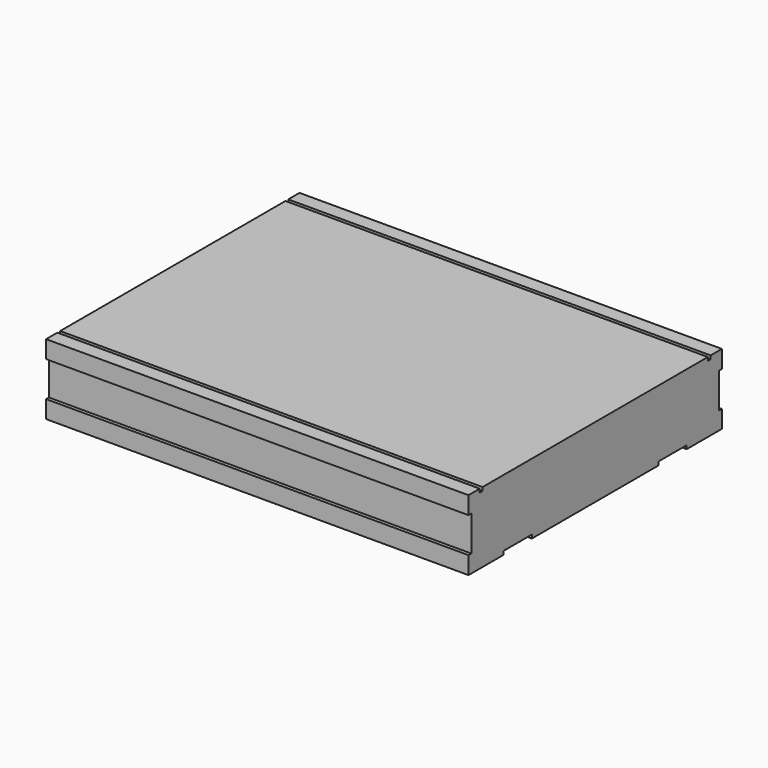
from build123d import *

# Parameters (mm, degrees)
F1_DEPTH = 152.4


with BuildPart() as f1:
    # F0 (on Right) → F1 (new body, symmetric)
    with BuildSketch(Plane.YZ):
        Polygon((-57.15, 0), (0, 0), (57.15, 0), (57.15, 2.54), (82.55, 2.54), (82.55, 0), (114.3, 0), (114.3, 12.7), (111.76, 12.7), (111.76, 38.1), (114.3, 38.1), (114.3, 50.8), (104.14, 50.8), (104.14, 48.26), (101.6, 48.26), (101.6, 50.8), (0, 50.8), (-101.6, 50.8), (-101.6, 48.26), (-104.14, 48.26), (-104.14, 50.8), (-114.3, 50.8), (-114.3, 38.1), (-111.76, 38.1), (-111.76, 12.7), (-114.3, 12.7), (-114.3, 0), (-82.55, 0), (-82.55, 2.54), (-57.15, 2.54), align=None)
    extrude(amount=F1_DEPTH, both=True)


solid = f1.part
